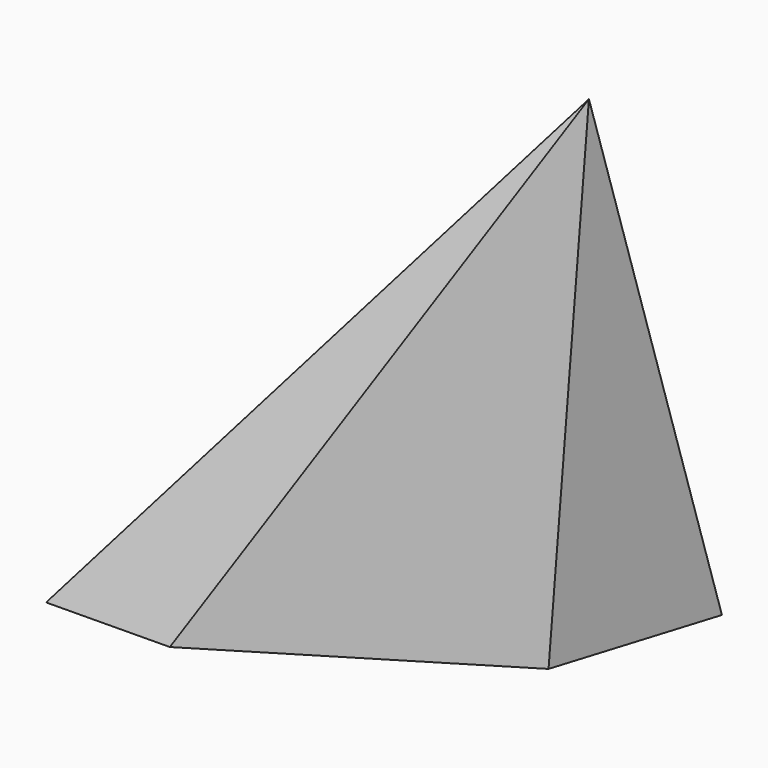
from build123d import *


with BuildPart() as f3:
    # F0 (on Top) → F3 section 0
    with BuildSketch(Plane.XY, mode=Mode.PRIVATE) as f3_s0:
        Polygon((-94.098367, -30.553279), (-70.286885, -30.266395), (-20.942625, 0), (-11.47541, 30.266395), (-53.073771, 30.266395), (-38.729507, 4.733607), align=None)
    loft([f3_s0.sketch, Vertex(-13.095035, 0, 100)])


solid = f3.part
